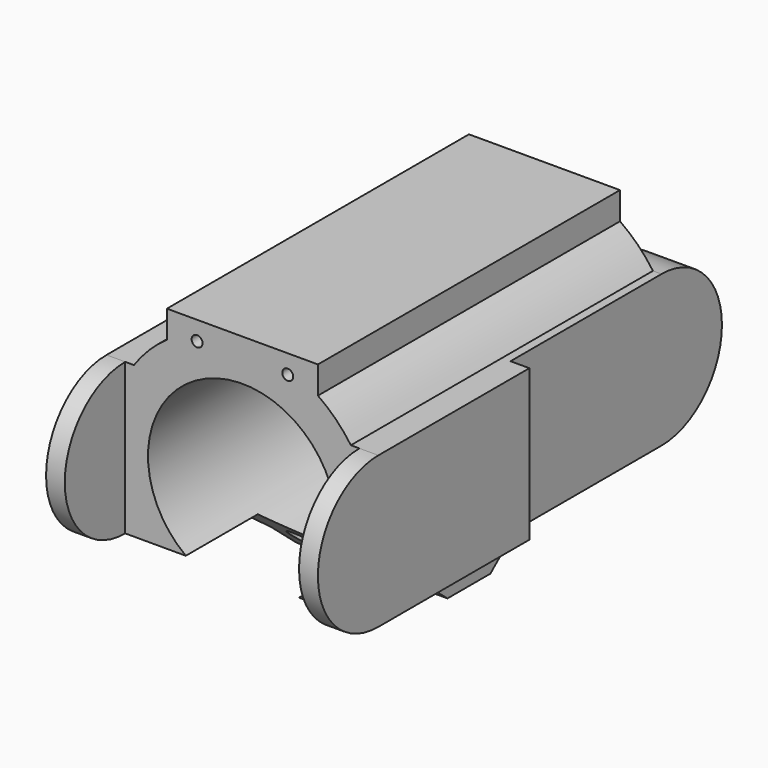
from build123d import *

# Parameters (mm, degrees)
F0_R     = 7.9375
F0_R_2   = 0.4572
F0_R_3   = 1.0541
F1_DEPTH = 50.8
F3_DEPTH = 25.4
F5_DEPTH = 1.5875
F7_DEPTH = 1.5875
F9_DEPTH = 25.4


with BuildPart() as f1:
    # F0 (on Front) → F1 (new body)
    with BuildSketch(Plane.XZ):
        with BuildLine():
            Line((-6.35, 8.255), (-6.35, 9.1194932014))
            ThreePointArc((-6.35, 9.1194932014), (-7.8577241059, 7.8577241059), (-9.1194932014, 6.35))
            Line((-9.1194932014, 6.35), (-8.255, 6.35))
            Line((-8.255, 6.35), (-8.255, -6.35))
            Line((-8.255, -6.35), (-9.1194932014, -6.35))
            ThreePointArc((-9.1194932014, -6.35), (-7.8577241059, -7.8577241059), (-6.35, -9.1194932014))
            Line((-6.35, -9.1194932014), (-6.35, -8.255))
            Line((-6.35, -8.255), (6.35, -8.255))
            Line((6.35, -8.255), (6.35, -9.1194932014))
            ThreePointArc((6.35, -9.1194932014), (7.8577241059, -7.8577241059), (9.1194932014, -6.35))
            Line((9.1194932014, -6.35), (8.255, -6.35))
            Line((8.255, -6.35), (8.255, 6.35))
            Line((8.255, 6.35), (9.1194932014, 6.35))
            ThreePointArc((9.1194932014, 6.35), (7.8577241059, 7.8577241059), (6.35, 9.1194932014))
            Line((6.35, 9.1194932014), (6.35, 8.255))
            Line((6.35, 8.255), (-6.35, 8.255))
        make_face()
        Circle(F0_R, mode=Mode.SUBTRACT)
        Polygon((-6.35, 11.43), (-6.35, 9.1194932014), (-6.35, 8.255), (6.35, 8.255), (6.35, 9.1194932014), (6.35, 11.43), align=None)
        with Locations((-3.81, 9.8425)):
            Circle(F0_R_2, mode=Mode.SUBTRACT)
        with Locations((3.81, 9.8425)):
            Circle(F0_R_2, mode=Mode.SUBTRACT)
        Polygon((-8.255, 6.35), (-9.1194932014, 6.35), (-11.43, 6.35), (-11.43, -6.35), (-9.1194932014, -6.35), (-8.255, -6.35), align=None)
        Polygon((11.43, 6.35), (9.1194932014, 6.35), (8.255, 6.35), (8.255, -6.35), (9.1194932014, -6.35), (11.43, -6.35), align=None)
        Polygon((-6.35, -8.255), (-6.35, -9.1194932014), (-6.35, -11.43), (6.35, -11.43), (6.35, -9.1194932014), (6.35, -8.255), align=None)
        with Locations((-3.81, -9.398)):
            Circle(F0_R_3, mode=Mode.SUBTRACT)
        with Locations((3.81, -9.398)):
            Circle(F0_R_3, mode=Mode.SUBTRACT)
    extrude(amount=F1_DEPTH)

    # F2 (on face) → F3 (cut)
    with BuildSketch(Plane.YZ.offset(11.43)):
        Polygon((-6.35, -14.262049963), (-6.35, -6.35), (-13.917635313, -6.35), (-23.3468492811, -14.262049963), align=None)
        Polygon((-30.532364687, -6.35), (-38.1, -6.35), (-38.1, -13.0920841112), (-22.4974617259, -13.0920841112), align=None)
        with BuildLine():
            ThreePointArc((-6.35, 6.35), (-1.8598719395, 4.4901280605), (0, 0))
            Line((0, 0), (0, 6.35))
            Line((0, 6.35), (-6.35, 6.35))
        make_face()
        with BuildLine():
            Line((0, -6.35), (0, 0))
            ThreePointArc((0, 0), (-1.8598719395, -4.4901280605), (-6.35, -6.35))
            Line((-6.35, -6.35), (0, -6.35))
        make_face()
        with BuildLine():
            ThreePointArc((-38.1, -6.35), (-44.45, 0), (-38.1, 6.35))
            Line((-38.1, 6.35), (-50.8, 6.35))
            Line((-50.8, 6.35), (-50.8, -6.35))
            Line((-50.8, -6.35), (-38.1, -6.35))
        make_face()
        Polygon((-50.8, 6.35), (-38.1, 6.35), (-38.1, 21.2670403779), (-58.9078754084, 21.2670403779), (-58.9078754084, -13.0920841112), (-38.1, -13.0920841112), (-38.1, -6.35), (-50.8, -6.35), align=None)
        Polygon((0, 6.35), (0, 0), (0, -6.35), (-6.35, -6.35), (-6.35, -14.262049963), (6.5678101668, -14.262049963), (6.5678101668, 16.9484131038), (-6.35, 16.9484131038), (-6.35, 6.35), align=None)
    extrude(amount=-F3_DEPTH, mode=Mode.SUBTRACT)

    # F4 (on face) → F5 (cut)
    with BuildSketch(Plane.YZ.offset(11.43)):
        with BuildLine():
            ThreePointArc((-6.35, -6.35), (-1.8598719395, -4.4901280605), (0, 0))
            ThreePointArc((0, 0), (-1.8598719395, 4.4901280605), (-6.35, 6.35))
            ThreePointArc((-6.35, 6.35), (-12.7, 0), (-6.35, -6.35))
        make_face()
        with BuildLine():
            ThreePointArc((-6.35, -6.35), (-12.7, 0), (-6.35, 6.35))
            Line((-6.35, 6.35), (-22.225, 6.35))
            Line((-22.225, 6.35), (-22.225, -6.35))
            Line((-22.225, -6.35), (-6.35, -6.35))
        make_face()
    extrude(amount=-F5_DEPTH, mode=Mode.SUBTRACT)

    # F6 (on face) → F7 (cut)
    with BuildSketch(Plane(origin=(-11.43, 0, 0), x_dir=(0, -1, 0), z_dir=(-1, 0, 0))):
        with BuildLine():
            ThreePointArc((6.35, -6.35), (10.8401280605, -4.4901280605), (12.7, 0))
            ThreePointArc((12.7, 0), (10.8401280605, 4.4901280605), (6.35, 6.35))
            Line((6.35, 6.35), (6.35, -6.35))
        make_face()
        with BuildLine():
            ThreePointArc((6.35, 6.35), (10.8401280605, 4.4901280605), (12.7, 0))
            ThreePointArc((12.7, 0), (10.8401280605, -4.4901280605), (6.35, -6.35))
            Line((6.35, -6.35), (22.225, -6.35))
            Line((22.225, -6.35), (22.225, 6.35))
            Line((22.225, 6.35), (6.35, 6.35))
        make_face()
        with BuildLine():
            Line((6.35, -6.35), (6.35, 6.35))
            ThreePointArc((6.35, 6.35), (0, 0), (6.35, -6.35))
        make_face()
    extrude(amount=-F7_DEPTH, mode=Mode.SUBTRACT)

    # F8 (on face) → F9 (cut)
    with BuildSketch(Plane.XY.offset(6.35)):
        Polygon((9.8425, -48.5432855785), (9.8425, -38.1), (9.1194932014, -38.1), (-9.8552, -38.1), (-9.8552, -48.5432855785), align=None)
    extrude(amount=-F9_DEPTH, mode=Mode.SUBTRACT)


solid = f1.part
